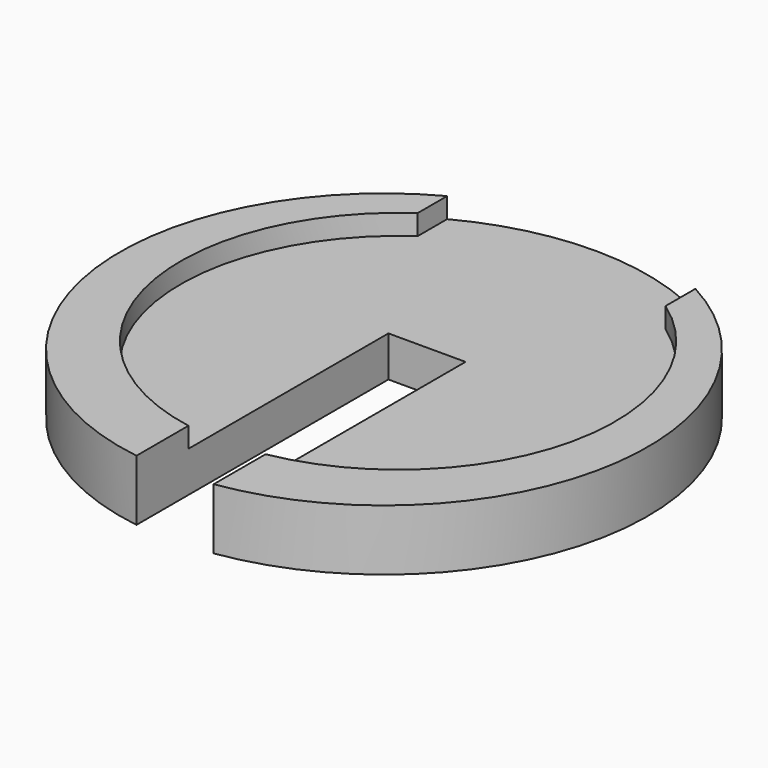
from build123d import *

# Parameters (mm, degrees)
F0_R     = 82.55
F1_DEPTH = 9.525
F2_W     = 24.13
F2_H     = 99.441
F3_DEPTH = 9.525
F5_R     = 67.945
F6_DEPTH = 6.35
F8_DEPTH = 6.35


with BuildPart() as f1:
    # F0 (on Top) → F1 (new body, symmetric)
    with BuildSketch(Plane.XY):
        Circle(F0_R)
    extrude(amount=F1_DEPTH, both=True)

    # F2 (on Top) → F3 (cut, symmetric)
    with BuildSketch(Plane.XY):
        with Locations((0, -32.900974)):
            Rectangle(F2_W, F2_H)
    extrude(amount=F3_DEPTH, both=True, mode=Mode.SUBTRACT)

    # F5 (on face) → F6 (cut)
    with BuildSketch(Plane.XY.offset(9.525)):
        with Locations((0, 5.5118)):
            Circle(F5_R)
    extrude(amount=-F6_DEPTH, mode=Mode.SUBTRACT)

    # F7 (on offset) → F8 (cut)
    with BuildSketch(Plane(origin=(0, 4.112923, 9.525), x_dir=(1, 0, 0), z_dir=(0, 0, 1))):
        Polygon((39.37, 103.543088), (6.096, 103.543088), (-38.608, 103.543088), (-38.608, 52.743088), (39.37, 52.743088), align=None)
    extrude(amount=-F8_DEPTH, mode=Mode.SUBTRACT)


solid = f1.part
